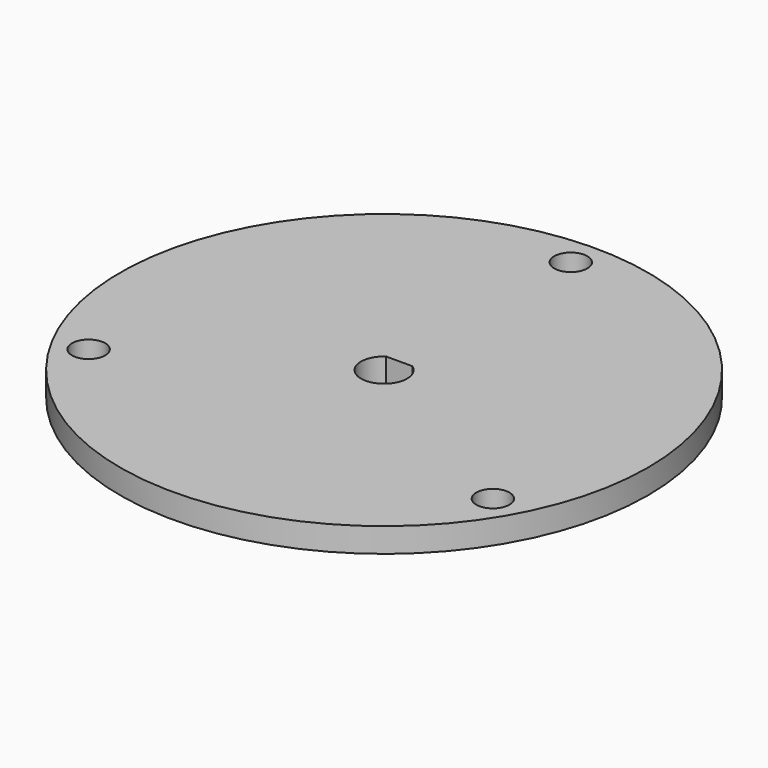
from build123d import *

# Parameters (mm, degrees)
F0_R     = 34.29
F0_R_2   = 2.15265
F1_DEPTH = 3.175


with BuildPart() as f1:
    # F0 (on Top) → F1 (new body)
    with BuildSketch(Plane.XY):
        Circle(F0_R)
        with Locations((-26.258973, -15.160625)):
            Circle(F0_R_2, mode=Mode.SUBTRACT)
        with BuildLine():
            ThreePointArc((1.715656, 2.460994), (0, -2.999994), (-1.715656, 2.460994))
            Line((-1.715656, 2.460994), (1.715656, 2.460994))
        make_face(mode=Mode.SUBTRACT)
        with Locations((26.258973, -15.160625)):
            Circle(F0_R_2, mode=Mode.SUBTRACT)
        with Locations((0, 30.32125)):
            Circle(F0_R_2, mode=Mode.SUBTRACT)
    extrude(amount=F1_DEPTH)


solid = f1.part
